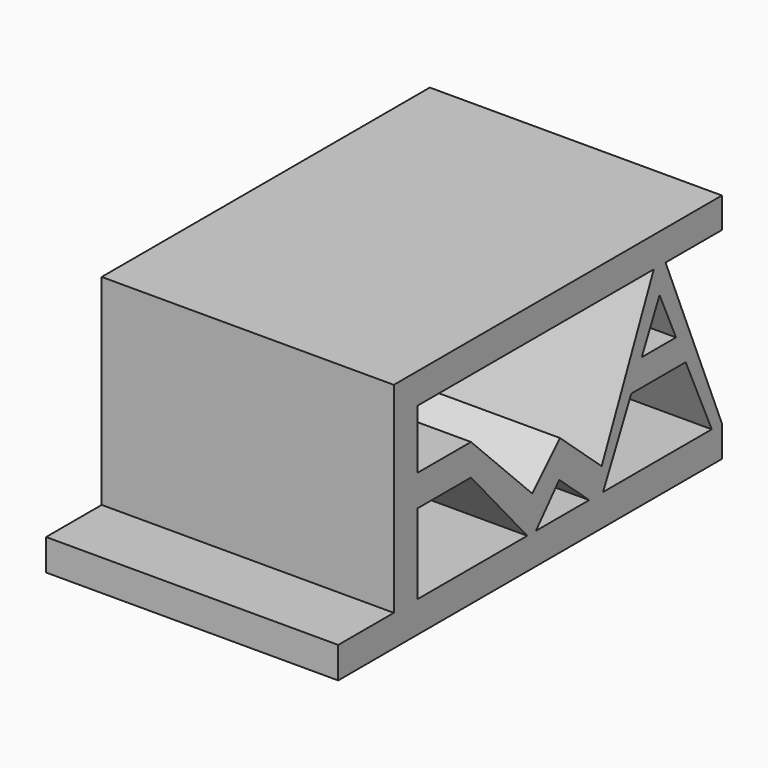
from build123d import *

# Parameters (mm, degrees)
F1_DEPTH = 76.2
F2_SCALE = 0.456


with BuildPart() as f1:
    # F0 (on Right) → F1 (new body)
    with BuildSketch(Plane.YZ):
        Polygon((-48.0460859835, 26.5159979463), (-48.0460859835, 18.583862111), (-48.0460859835, -25.8361026645), (-66.1766827106, -25.8361026645), (-66.1766827106, -33.994872123), (58.9244402945, -33.994872123), (58.9244402945, -25.8361026645), (40.5494719744, 18.583862111), (58.9244402945, 18.583862111), (58.9244402945, 26.5159979463), align=None)
        Polygon((-40.3405800462, -25.8361026645), (-40.3405800462, -4.9859141), (-22.8898804635, -4.9859141), (-4.5373504981, -25.8361026645), align=None, mode=Mode.SUBTRACT)
        Polygon((5.892444402, -17.2240678221), (15.6376380473, -25.8361026645), (-1.7181939112, -25.8361026645), align=None, mode=Mode.SUBTRACT)
        Polygon((20.1702881604, -25.8361026645), (29.3786743217, -6.9645952518), (47.0987882776, -6.9645952518), (55.6105160723, -25.8361026645), align=None, mode=Mode.SUBTRACT)
        Polygon((-40.3405800462, 3.1728551257), (-40.3405800462, 18.583862111), (36.699898541, 18.583862111), (19.7170265019, -19.7170246392), (6.1190756969, -7.705503609), (-2.9462228446, -16.7708022576), (-22.8898804635, 3.1728551257), align=None, mode=Mode.SUBTRACT)
        Polygon((32.7770611666, 0), (38.5870604829, 11.9069121608), (43.9575056186, 0), align=None, mode=Mode.SUBTRACT)
    extrude(amount=F1_DEPTH)


with BuildPart() as f1_1:
    # F2: moved
    add(f1.part.scale(F2_SCALE))


solid = f1_1.part
